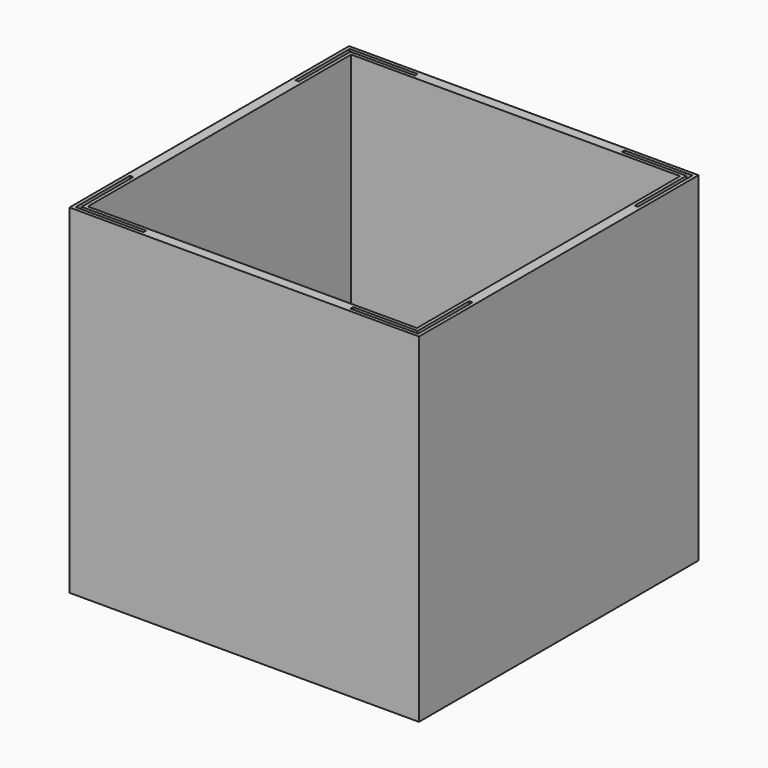
from build123d import *

# Parameters (mm, degrees)
F0_W     = 103
F0_H     = 103
F1_DEPTH = 100
F2_W     = 97
F2_H     = 97
F3_DEPTH = 97
F4_W     = 1
F4_H     = 19
F4_W_2   = 19
F4_H_2   = 1
F5_DEPTH = 5


with BuildPart() as f1:
    # F0 (on Top) → F1 (new body)
    with BuildSketch(Plane.XY):
        with Locations((51.5, 51.5)):
            Rectangle(F0_W, F0_H)
        with Locations((51.5, 51.5)):
            Rectangle(F0_W, F0_H)
    extrude(amount=F1_DEPTH)

    # F2 (on face) → F3 (cut)
    with BuildSketch(Plane.XY.offset(100)):
        with Locations((51.5, 51.5)):
            Rectangle(F2_W, F2_H)
    extrude(amount=-F3_DEPTH, mode=Mode.SUBTRACT)

    # F4 (on face) → F5 (cut)
    with BuildSketch(Plane.XY.offset(100)):
        Polygon((21, 102), (1, 102), (1, 101), (2, 101), (21, 101), align=None)
        with Locations((1.5, 91.5)):
            Rectangle(F4_W, F4_H)
        Polygon((2, 21), (1, 21), (1, 1), (2, 1), (2, 2), align=None)
        with Locations((11.5, 1.5)):
            Rectangle(F4_W_2, F4_H_2)
        Polygon((101, 2), (82, 2), (82, 1), (102, 1), (102, 2), align=None)
        with Locations((101.5, 11.5)):
            Rectangle(F4_W, F4_H)
        Polygon((102, 102), (82, 102), (82, 101), (101, 101), (102, 101), align=None)
        with Locations((101.5, 91.5)):
            Rectangle(F4_W, F4_H)
        Polygon((102, 102), (82, 102), (82, 101), (101, 101), (102, 101), align=None)
    extrude(amount=-F5_DEPTH, mode=Mode.SUBTRACT)


solid = f1.part
